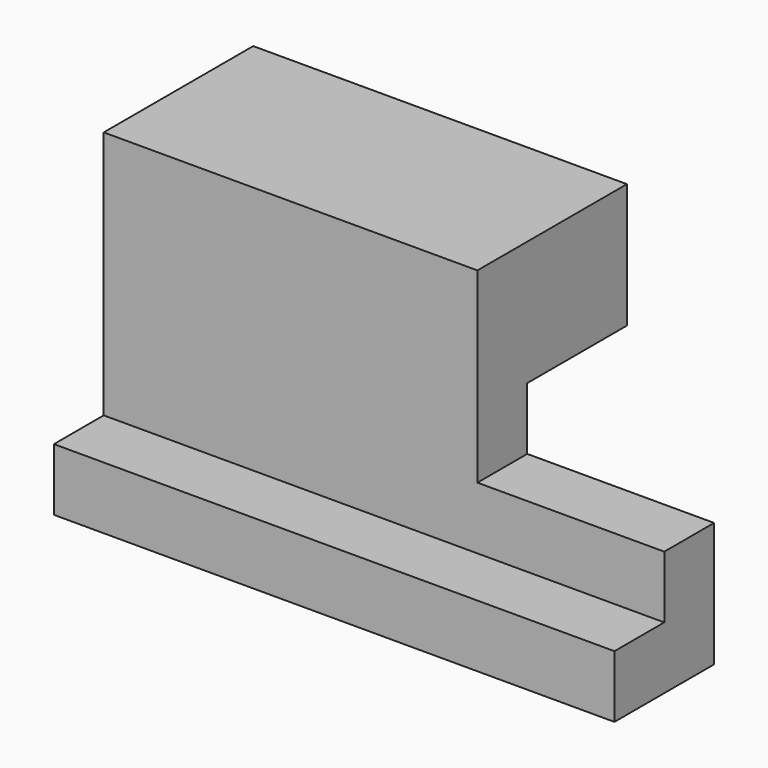
from build123d import *

# Parameters (mm, degrees)
F1_DEPTH = 50.8
F2_W     = 12.7
F2_H     = 50.8
F3_DEPTH = 114.808
F4_W     = 25.4
F4_H     = 38.1
F5_DEPTH = 115.062


with BuildPart() as f1:
    # F0 (on Front) → F1 (new body)
    with BuildSketch(Plane.XZ):
        Polygon((43.89682, 45.477446), (-32.30318, 45.477446), (-32.30318, -18.022554), (81.99682, -18.022554), (81.99682, 7.377446), (43.89682, 7.377446), align=None)
    extrude(amount=-F1_DEPTH)

    # F2 (on face) → F3 (cut)
    with BuildSketch(Plane(origin=(-32.30318, 0, 0), x_dir=(0, -1, 0), z_dir=(-1, 0, 0))):
        with Locations((-6.35, 20.077446)):
            Rectangle(F2_W, F2_H)
    extrude(amount=-F3_DEPTH, mode=Mode.SUBTRACT)

    # F4 (on face) → F5 (cut)
    with BuildSketch(Plane(origin=(-32.30318, 0, 0), x_dir=(0, -1, 0), z_dir=(-1, 0, 0))):
        with Locations((-38.1, 1.027446)):
            Rectangle(F4_W, F4_H)
    extrude(amount=-F5_DEPTH, mode=Mode.SUBTRACT)


solid = f1.part
